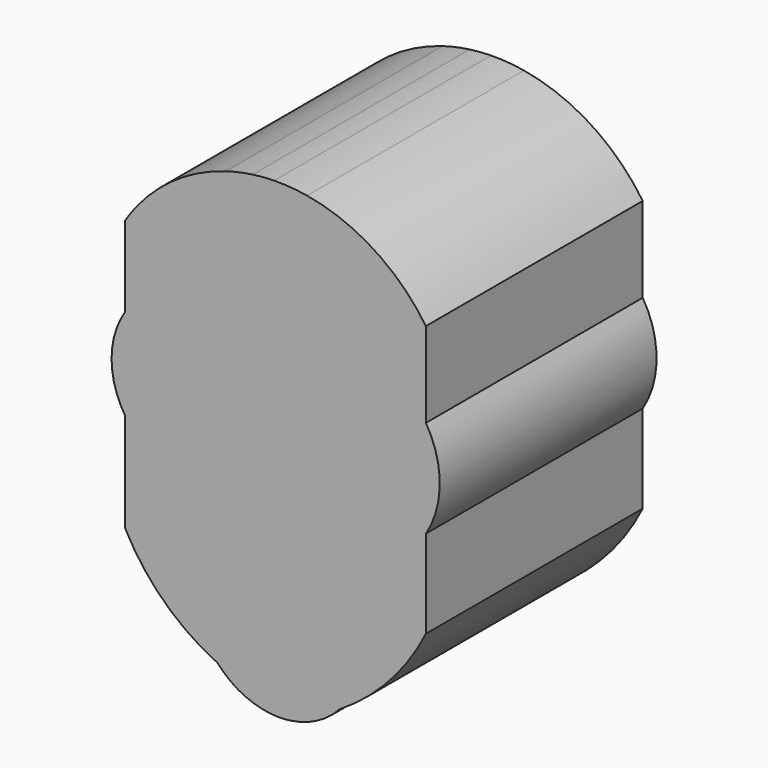
from build123d import *

# Parameters (mm, degrees)
F0_R     = 2.5545771164
F1_DEPTH = 25.4


with BuildPart() as f1:
    # F0 (on Front) → F1 (new body)
    with BuildSketch(Plane.XZ):
        with BuildLine():
            ThreePointArc((5.5173615, -12.2159869029), (10.1722749208, -8.349582263), (13.5962825941, -3.3602461101))
            Line((13.5962825941, -3.3602461101), (13.5962825941, 4.8974110327))
            Line((13.5962825941, 4.8974110327), (13.5962825941, 14.0348058194))
            Line((13.5962825941, 14.0348058194), (13.5962825941, 22.0215348944))
            ThreePointArc((13.5962825941, 22.0215348944), (7.0004948303, 23.9860138876), (2.4660649804, 29.163130834))
            ThreePointArc((2.4660649804, 29.163130834), (0.9278228298, 29.3509775836), (-0.6211690061, 29.3967990577))
            ThreePointArc((-0.6211690061, 29.3967990577), (-6.7674815186, 23.985159586), (-14.5891272378, 21.5592870597))
            Line((-14.5891272378, 21.5592870597), (-14.5891272378, 14.0348058194))
            Line((-14.5891272378, 14.0348058194), (-14.5891272378, 5.4543889128))
            Line((-14.5891272378, 5.4543889128), (-14.5891272378, -3.8224939448))
            ThreePointArc((-14.5891272378, -3.8224939448), (-10.9382332049, -8.6804949763), (-5.9286805309, -12.1204925444))
            ThreePointArc((-5.9286805309, -12.1204925444), (-3.6496885116, -13.8889948714), (-0.8791223551, -14.6923430381))
            Line((-0.8791223551, -14.6923430381), (-1.524235704, -12.442663312))
            Line((-1.524235704, -12.442663312), (-0.8053276106, -12.442663312))
            Line((-0.8053276106, -12.442663312), (1.6964728711, -12.442663312))
            Line((1.6964728711, -12.442663312), (0.9172699194, -14.6494874696))
            ThreePointArc((0.9172699194, -14.6494874696), (3.4296394179, -13.8340966584), (5.5173615, -12.2159869029))
        make_face()
        with BuildLine():
            ThreePointArc((4.1042999377, -5.4248327223), (-0.1629000623, -7.0430521679), (-4.4301000623, -5.4248327223))
            ThreePointArc((-4.4301000623, -5.4248327223), (-0.1629000623, -4.7424848144), (4.1042999377, -5.4248327223))
        make_face(mode=Mode.SUBTRACT)
        with BuildLine():
            ThreePointArc((-5.5468901992, -5.0085484982), (-0.1374995827, -3.3742803628), (5.2100941539, -5.2006375045))
            ThreePointArc((5.2100941539, -5.2006375045), (-0.1549943991, -4.3539900851), (-5.5468901992, -5.0085484982))
        make_face(mode=Mode.SUBTRACT)
        with BuildLine():
            Line((-1.1811126024, 3.6468864419), (0, 8.5498616099))
            Line((0, 8.5498616099), (0.9875110118, 3.6468864419))
            ThreePointArc((0.9875110118, 3.6468864419), (-0.0968007953, 3.4477826759), (-1.1811126024, 3.6468864419))
        make_face(mode=Mode.SUBTRACT)
        with Locations((-5.9286805309, 12.5275942676)):
            Circle(F0_R, mode=Mode.SUBTRACT)
        with Locations((5.2393031111, 12.5385038482)):
            Circle(F0_R, mode=Mode.SUBTRACT)
        with Locations((-5.9286805309, 12.5275942676)):
            Circle(F0_R)
        with Locations((5.2393031111, 12.5385038482)):
            Circle(F0_R)
        with BuildLine():
            ThreePointArc((-14.5891272378, 21.5592870597), (-8.0233624944, 24.4917266981), (-2.6266052104, 29.2439345762))
            ThreePointArc((-2.6266052104, 29.2439345762), (-3.8995230158, 29.0200605642), (-5.1515523835, 28.6993398522))
            ThreePointArc((-5.1515523835, 28.6993398522), (-9.00952741, 25.5027604596), (-13.4385656433, 23.1606008906))
            ThreePointArc((-13.4385656433, 23.1606008906), (-14.0372751917, 22.3767777904), (-14.5891272378, 21.5592870597))
        make_face()
        with BuildLine():
            ThreePointArc((-14.5891272378, 21.5592870597), (-6.7674815186, 23.985159586), (-0.6211690061, 29.3967990577))
            ThreePointArc((-0.6211690061, 29.3967990577), (-1.6261684912, 29.3502963848), (-2.6266052104, 29.2439345762))
            ThreePointArc((-2.6266052104, 29.2439345762), (-8.0233624944, 24.4917266981), (-14.5891272378, 21.5592870597))
        make_face()
        with BuildLine():
            ThreePointArc((4.1042999377, -5.4248327223), (-0.1629000623, -4.7424848144), (-4.4301000623, -5.4248327223))
            ThreePointArc((-4.4301000623, -5.4248327223), (-0.1629000623, -7.0430521679), (4.1042999377, -5.4248327223))
        make_face()
        with BuildLine():
            ThreePointArc((2.4660649804, 29.163130834), (8.0510188895, 25.6232615682), (13.5962825941, 22.0215348944))
            ThreePointArc((13.5962825941, 22.0215348944), (8.7605664052, 26.7290953796), (2.4660649804, 29.163130834))
        make_face()
        with BuildLine():
            ThreePointArc((2.4660649804, 29.163130834), (7.5150761888, 24.7879918416), (13.5962825941, 22.0215348944))
            ThreePointArc((13.5962825941, 22.0215348944), (8.0510188895, 25.6232615682), (2.4660649804, 29.163130834))
        make_face()
        with BuildLine():
            ThreePointArc((2.4660649804, 29.163130834), (7.0004948303, 23.9860138876), (13.5962825941, 22.0215348944))
            ThreePointArc((13.5962825941, 22.0215348944), (7.5150761888, 24.7879918416), (2.4660649804, 29.163130834))
        make_face()
        with BuildLine():
            ThreePointArc((-13.4385656433, 23.1606008906), (-9.00952741, 25.5027604596), (-5.1515523835, 28.6993398522))
            ThreePointArc((-5.1515523835, 28.6993398522), (-9.7137087169, 26.5563504315), (-13.4385656433, 23.1606008906))
        make_face()
        with BuildLine():
            Line((13.5962825941, 14.0348058194), (13.5962825941, 4.8974110327))
            ThreePointArc((13.5962825941, 4.8974110327), (14.8954022083, 9.4661084261), (13.5962825941, 14.0348058194))
        make_face()
        with BuildLine():
            ThreePointArc((-14.5891272378, 14.0348058194), (-15.8586854832, 9.7445973661), (-14.5891272378, 5.4543889128))
            Line((-14.5891272378, 5.4543889128), (-14.5891272378, 14.0348058194))
        make_face()
        with BuildLine():
            ThreePointArc((-5.5468901992, -5.0085484982), (-0.1549943991, -4.3539900851), (5.2100941539, -5.2006375045))
            ThreePointArc((5.2100941539, -5.2006375045), (-0.1374995827, -3.3742803628), (-5.5468901992, -5.0085484982))
        make_face()
        with BuildLine():
            Line((0.9875110118, 3.6468864419), (0, 8.5498616099))
            Line((0, 8.5498616099), (-1.1811126024, 3.6468864419))
            ThreePointArc((-1.1811126024, 3.6468864419), (-0.0968007953, 3.4477826759), (0.9875110118, 3.6468864419))
        make_face()
        Polygon((-0.8791223551, -14.6923430381), (0.9172699194, -14.6494874696), (1.6964728711, -12.442663312), (-0.8053276106, -12.442663312), (-1.524235704, -12.442663312), align=None)
        with BuildLine():
            ThreePointArc((-0.8791223551, -14.6923430381), (0.0203310213, -14.7236153998), (0.9172699194, -14.6494874696))
            Line((0.9172699194, -14.6494874696), (-0.8791223551, -14.6923430381))
        make_face()
    extrude(amount=F1_DEPTH)


solid = f1.part
